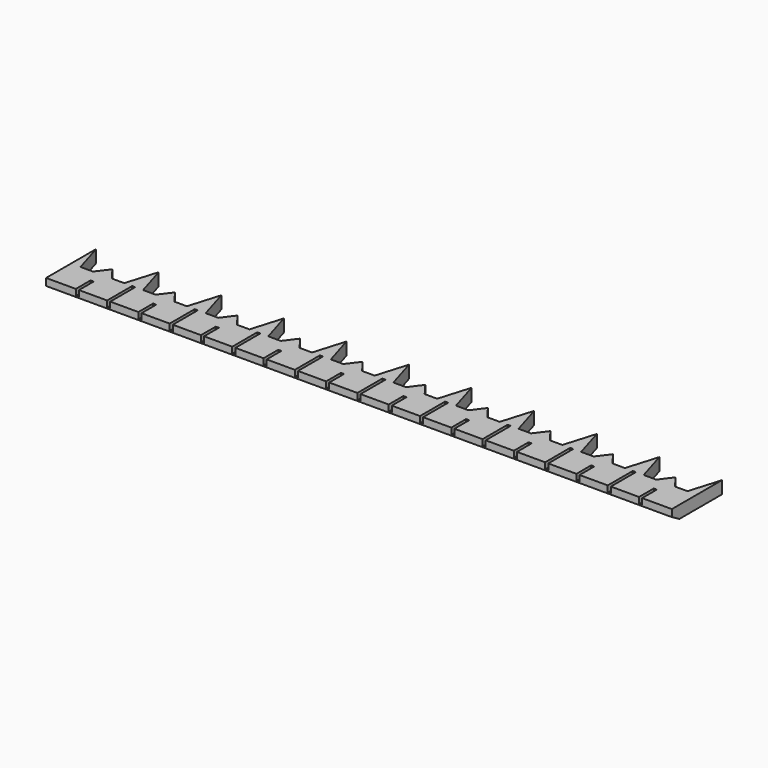
from build123d import *

# Parameters (mm, degrees)
F1_DEPTH = 2
F2_SIZE2 = 0.8660254038
F2_SIZE  = 1.5
F3_W     = 0.5
F3_H     = 5
F3_H_2   = 2.9487536475
F4_DEPTH = 1


with BuildPart() as f1:
    # F0 (on Top) → F1 (new body)
    with BuildSketch(Plane.XY):
        Polygon((-50, -2.5), (50, -2.5), (50, 2.5), (48.5, 2.5), (46.5, 2.5), (43.5, 2.5), (41.5, 2.5), (38.5, 2.5), (36.5, 2.5), (33.5, 2.5), (31.5, 2.5), (28.5, 2.5), (26.5, 2.5), (23.5, 2.5), (21.5, 2.5), (18.5, 2.5), (16.5, 2.5), (13.5, 2.5), (11.5, 2.5), (8.5, 2.5), (6.5, 2.5), (3.5, 2.5), (1.5, 2.5), (-1.5, 2.5), (-3.5, 2.5), (-6.5, 2.5), (-8.5, 2.5), (-11.5, 2.5), (-13.5, 2.5), (-16.5, 2.5), (-18.5, 2.5), (-21.5, 2.5), (-23.5, 2.5), (-26.5, 2.5), (-28.5, 2.5), (-31.5, 2.5), (-33.5, 2.5), (-36.5, 2.5), (-38.5, 2.5), (-40, 2.5), (-41.5, 2.5), (-43.5, 2.5), (-46.5, 2.5), (-48.5, 2.5), (-50, 2.5), align=None)
        Polygon((48.5, 2.5), (50, 2.5), (50, 7.5), align=None)
        Polygon((-50, 7.5), (-50, 2.5), (-48.5, 2.5), align=None)
        Polygon((43.5, 2.5), (46.5, 2.5), (45, 4.5), align=None)
        Polygon((-45, 4.5), (-46.5, 2.5), (-43.5, 2.5), align=None)
        Polygon((38.5, 2.5), (41.5, 2.5), (40, 7.5), align=None)
        Polygon((-40, 7.5), (-41.5, 2.5), (-40, 2.5), (-38.5, 2.5), align=None)
        Polygon((33.5, 2.5), (36.5, 2.5), (35, 4.5), align=None)
        Polygon((-35, 4.5), (-36.5, 2.5), (-33.5, 2.5), align=None)
        Polygon((28.5, 2.5), (31.5, 2.5), (30, 7.5), align=None)
        Polygon((-30, 7.5), (-31.5, 2.5), (-28.5, 2.5), align=None)
        Polygon((23.5, 2.5), (26.5, 2.5), (25, 4.5), align=None)
        Polygon((-25, 4.5), (-26.5, 2.5), (-23.5, 2.5), align=None)
        Polygon((18.5, 2.5), (21.5, 2.5), (20, 7.5), align=None)
        Polygon((-20, 7.5), (-21.5, 2.5), (-18.5, 2.5), align=None)
        Polygon((13.5, 2.5), (16.5, 2.5), (15, 4.5), align=None)
        Polygon((-15, 4.5), (-16.5, 2.5), (-13.5, 2.5), align=None)
        Polygon((8.5, 2.5), (11.5, 2.5), (10, 7.5), align=None)
        Polygon((-10, 7.5), (-11.5, 2.5), (-8.5, 2.5), align=None)
        Polygon((3.5, 2.5), (6.5, 2.5), (5, 4.5), align=None)
        Polygon((-5, 4.5), (-6.5, 2.5), (-3.5, 2.5), align=None)
        Polygon((-1.5, 2.5), (1.5, 2.5), (0, 7.5), align=None)
    extrude(amount=F1_DEPTH)

    # F2
    f2_edges = [f1.edges().sort_by_distance(p)[0] for p in [
        (0, -2.5, 0),
    ]]
    f2_side = f1.faces().sort_by_distance((0, 0.673554, 0))[0]
    chamfer(f2_edges, length=F2_SIZE, length2=F2_SIZE2, reference=f2_side)

    # F3 (on face) → F4 (cut)
    with BuildSketch(Plane.XY.offset(2)):
        with Locations((-40, 0)):
            Rectangle(F3_W, F3_H)
        with Locations((-30, 0)):
            Rectangle(F3_W, F3_H)
        with Locations((-20, 0)):
            Rectangle(F3_W, F3_H)
        with Locations((-10, 0)):
            Rectangle(F3_W, F3_H)
        Rectangle(F3_W, F3_H)
        with Locations((10, 0)):
            Rectangle(F3_W, F3_H)
        with Locations((20, 0)):
            Rectangle(F3_W, F3_H)
        with Locations((30, 0)):
            Rectangle(F3_W, F3_H)
        with Locations((40, 0)):
            Rectangle(F3_W, F3_H)
        with Locations((-45, -1.0256231762)):
            Rectangle(F3_W, F3_H_2)
        with Locations((-35, -1.0256231762)):
            Rectangle(F3_W, F3_H_2)
        with Locations((-25, -1.0256231762)):
            Rectangle(F3_W, F3_H_2)
        with Locations((-15, -1.0256231762)):
            Rectangle(F3_W, F3_H_2)
        with Locations((-5, -1.0256231762)):
            Rectangle(F3_W, F3_H_2)
        with Locations((5, -1.0256231762)):
            Rectangle(F3_W, F3_H_2)
        with Locations((15, -1.0256231762)):
            Rectangle(F3_W, F3_H_2)
        with Locations((25, -1.0256231762)):
            Rectangle(F3_W, F3_H_2)
        with Locations((35, -1.0256231762)):
            Rectangle(F3_W, F3_H_2)
        with Locations((45, -1.0256231762)):
            Rectangle(F3_W, F3_H_2)
    extrude(amount=-F4_DEPTH, mode=Mode.SUBTRACT)


solid = f1.part
